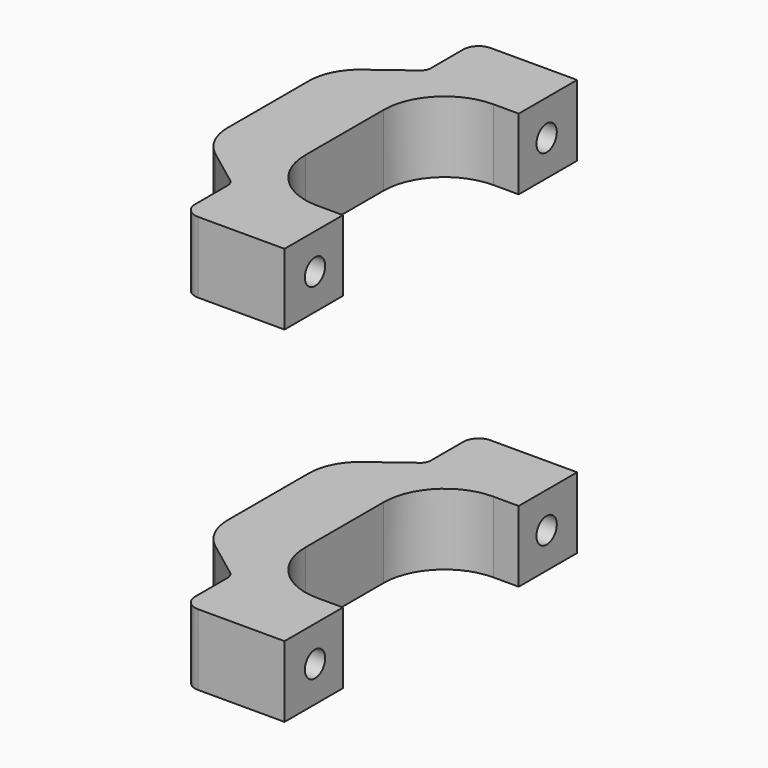
from build123d import *

# Parameters (mm, degrees)
PAD014_DEPTH    = 14
SKETCH015_R     = 2.5
POCKET005_DEPTH = 20.001
FILLET004_R     = 12
FILLET005_R     = 10
FILLET012_R     = 2
FILLET013_R     = 3


with BuildPart() as part:
    # Sketch014 (on Face10 of Binder003) → Pad014 (new body)
    with BuildSketch(Plane.XY.offset(41)):
        Polygon((-4, -36), (-4, -21.633308), (-21, -21.633308), (-21, 21.633308), (-4, 21.633308), (-4, 36), (-24, 36), (-24, 24), (-36, 15), (-36, -15), (-24, -24), (-24, -36), align=None)
    extrude(amount=-PAD014_DEPTH)

    # Sketch015 (on Face11 of Pad014) → Pocket005 (cut, through all)
    with BuildSketch(Plane(origin=(-24, 0, 0), x_dir=(0, -1, 0), z_dir=(-1, 0, 0))):
        with Locations((-28.5, 34)):
            Circle(SKETCH015_R)
        with Locations((28.5, 34)):
            Circle(SKETCH015_R)
    extrude(amount=-POCKET005_DEPTH, mode=Mode.SUBTRACT)

    # Fillet004
    fillet004_edges = [part.edges().sort_by_distance(p)[0] for p in [
        (-21, -21.633308, 34),
        (-21, 21.633308, 34),
    ]]
    fillet(fillet004_edges, radius=FILLET004_R)

    # Fillet005
    fillet005_edges = [part.edges().sort_by_distance(p)[0] for p in [
        (-36, -15, 34),
        (-36, 15, 34),
    ]]
    fillet(fillet005_edges, radius=FILLET005_R)

    # Fillet012
    fillet012_edges = [part.edges().sort_by_distance(p)[0] for p in [
        (-24, 24, 34),
        (-24, -24, 34),
    ]]
    fillet(fillet012_edges, radius=FILLET012_R)

    # Fillet013
    fillet013_edges = [part.edges().sort_by_distance(p)[0] for p in [
        (-24, 36, 34),
        (-24, -36, 34),
    ]]
    fillet(fillet013_edges, radius=FILLET013_R)

    # Mirrored001: part across XY


with BuildPart() as part_1:
    add(part.part)
    add(part.part.mirror(Plane.XY))


solid = part_1.part
